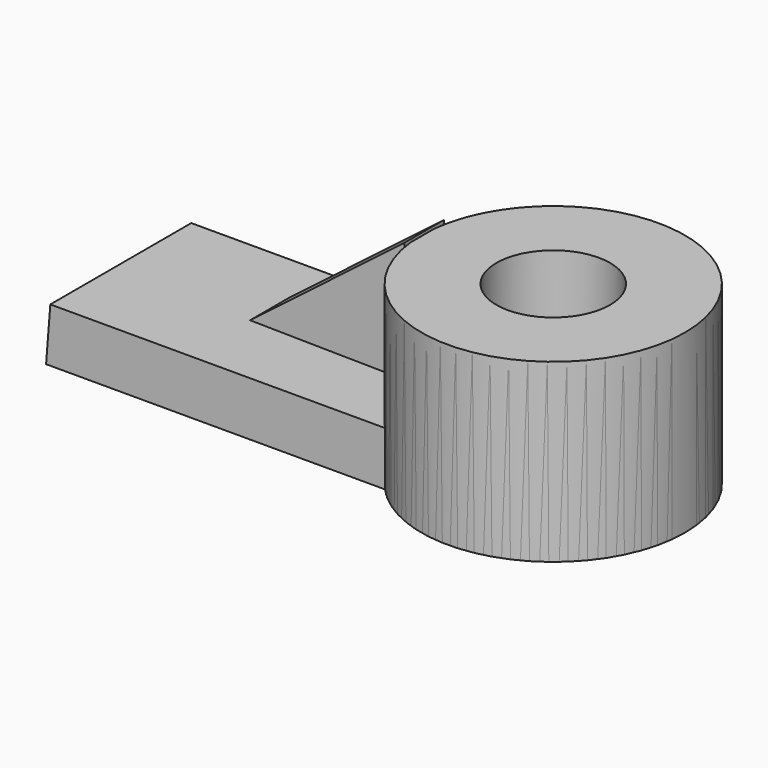
from build123d import *

# Parameters (mm, degrees)
F1_DEPTH = 25.4
F2_R     = 18.991619
F2_R_2   = 8.196011
F3_DEPTH = 25.4
F5_DEPTH = 7.112
F7_DEPTH = 25.4


with BuildPart() as f1:
    # F0 (on Front) → F1 (new body)
    with BuildSketch(Plane.XZ):
        Polygon((-69.779716, 7.787233), (-70.390478, 0), (-21.529408, 0), (-21.529408, 7.787233), align=None)
    extrude(amount=F1_DEPTH)

    # F2 (on Top) → F3 (join)
    with BuildSketch(Plane.XY):
        with Locations((-7.555679, -12.549907)):
            Circle(F2_R)
        with Locations((-7.555679, -12.549907)):
            Circle(F2_R_2, mode=Mode.SUBTRACT)
    extrude(amount=F3_DEPTH)


with BuildPart() as f5:
    # F4 (on Front) → F5 (new body)
    with BuildSketch(Plane.XZ):
        Polygon((-26.415514, 8.397996), (-26.415514, 25.804752), (-48.708379, 8.703378), align=None)
    extrude(amount=F5_DEPTH)


with BuildPart() as f5_1:
    # F6: moved
    add(f5.part.moved(Location((0, -6.096, 0))))


with BuildPart() as f7:
    # F2 (on Top) → F7 (new body)
    with BuildSketch(Plane.XY):
        with Locations((-7.555679, -12.549907)):
            Circle(F2_R)
        with Locations((-7.555679, -12.549907)):
            Circle(F2_R_2, mode=Mode.SUBTRACT)
    extrude(amount=F7_DEPTH)


with BuildPart() as f5_2:
    # F8: moved
    add(f5_1.part.moved(Location((0, -2.54, 0))))


solid = Compound([f1.part, f7.part, f5_2.part])
